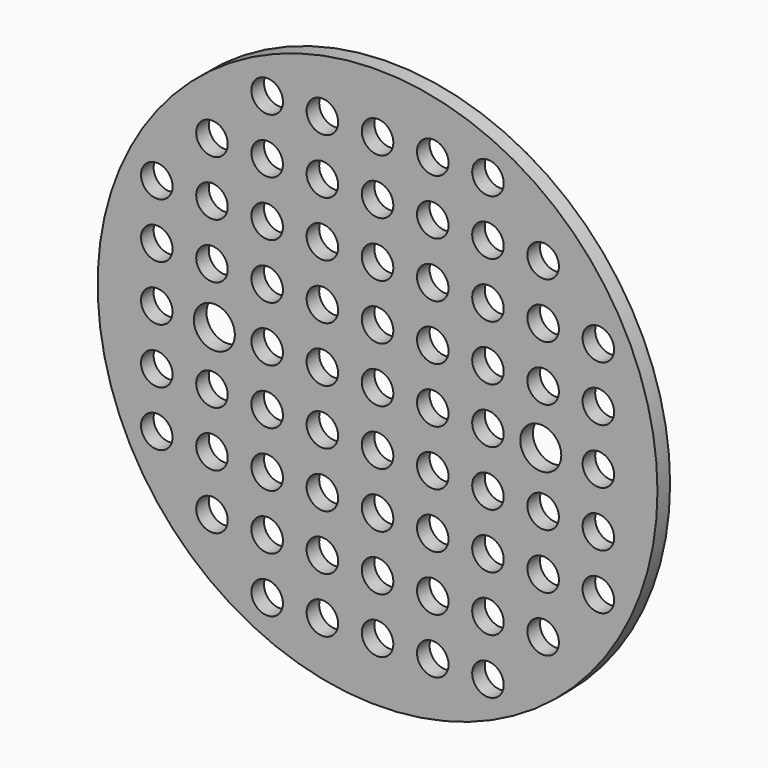
from build123d import *

# Parameters (mm, degrees)
F0_R     = 2.6
F1_DEPTH = 2
F2_R     = 2
F3_DEPTH = 25


with BuildPart() as f1:
    # F0 (on Front) → F1 (new body)
    with BuildSketch(Plane.XZ):
        with BuildLine():
            ThreePointArc((-35.5, 0), (0, -35.5), (35.5, 0))
            ThreePointArc((35.5, 0), (0, 35.5), (-35.5, 0))
        make_face()
        with BuildLine():
            ThreePointArc((-18.1, 0), (-20.7, -2.6), (-23.3, 0))
            ThreePointArc((-23.3, 0), (-20.7, 2.6), (-18.1, 0))
        make_face(mode=Mode.SUBTRACT)
        with Locations((20.7, 0)):
            Circle(F0_R, mode=Mode.SUBTRACT)
    extrude(amount=F1_DEPTH)

    # F2 (on face) → F3 (cut)
    with BuildSketch(Plane(origin=(0, 0, 0), x_dir=(-1, 0, 0), z_dir=(0, 1, 0))):
        Circle(F2_R)
        with Locations((0, 7)):
            Circle(F2_R)
        with Locations((0, 14)):
            Circle(F2_R)
        with Locations((0, 21)):
            Circle(F2_R)
        with Locations((0, 28)):
            Circle(F2_R)
        with Locations((7, 0)):
            Circle(F2_R)
        with Locations((7, 7)):
            Circle(F2_R)
        with Locations((7, 14)):
            Circle(F2_R)
        with Locations((7, 21)):
            Circle(F2_R)
        with Locations((7, 28)):
            Circle(F2_R)
        with Locations((14, 0)):
            Circle(F2_R)
        with Locations((14, 7)):
            Circle(F2_R)
        with Locations((14, 14)):
            Circle(F2_R)
        with Locations((14, 21)):
            Circle(F2_R)
        with Locations((14, 28)):
            Circle(F2_R)
        with Locations((21, 7)):
            Circle(F2_R)
        with Locations((21, 14)):
            Circle(F2_R)
        with Locations((21, 21)):
            Circle(F2_R)
        with Locations((28, 0)):
            Circle(F2_R)
        with Locations((28, 7)):
            Circle(F2_R)
        with Locations((28, 14)):
            Circle(F2_R)
        with Locations((-7, 28)):
            Circle(F2_R)
        with Locations((-7, 21)):
            Circle(F2_R)
        with Locations((-7, 14)):
            Circle(F2_R)
        with Locations((-7, 7)):
            Circle(F2_R)
        with Locations((-7, 0)):
            Circle(F2_R)
        with Locations((-14, 28)):
            Circle(F2_R)
        with Locations((-14, 21)):
            Circle(F2_R)
        with Locations((-14, 14)):
            Circle(F2_R)
        with Locations((-14, 7)):
            Circle(F2_R)
        with Locations((-14, 0)):
            Circle(F2_R)
        with Locations((-21, 21)):
            Circle(F2_R)
        with Locations((-21, 14)):
            Circle(F2_R)
        with Locations((-21, 7)):
            Circle(F2_R)
        with Locations((-28, 14)):
            Circle(F2_R)
        with Locations((-28, 7)):
            Circle(F2_R)
        with Locations((-28, 0)):
            Circle(F2_R)
        with Locations((-28, -7)):
            Circle(F2_R)
        with Locations((-21, -7)):
            Circle(F2_R)
        with Locations((-14, -7)):
            Circle(F2_R)
        with Locations((28, -7)):
            Circle(F2_R)
        with Locations((21, -7)):
            Circle(F2_R)
        with Locations((14, -7)):
            Circle(F2_R)
        with Locations((7, -7)):
            Circle(F2_R)
        with Locations((0, -7)):
            Circle(F2_R)
        with Locations((-7, -7)):
            Circle(F2_R)
        with Locations((-28, -14)):
            Circle(F2_R)
        with Locations((-21, -14)):
            Circle(F2_R)
        with Locations((-14, -14)):
            Circle(F2_R)
        with Locations((28, -14)):
            Circle(F2_R)
        with Locations((21, -14)):
            Circle(F2_R)
        with Locations((14, -14)):
            Circle(F2_R)
        with Locations((7, -14)):
            Circle(F2_R)
        with Locations((0, -14)):
            Circle(F2_R)
        with Locations((-7, -14)):
            Circle(F2_R)
        with Locations((-21, -21)):
            Circle(F2_R)
        with Locations((-14, -21)):
            Circle(F2_R)
        with Locations((21, -21)):
            Circle(F2_R)
        with Locations((14, -21)):
            Circle(F2_R)
        with Locations((7, -21)):
            Circle(F2_R)
        with Locations((0, -21)):
            Circle(F2_R)
        with Locations((-7, -21)):
            Circle(F2_R)
        with Locations((-14, -28)):
            Circle(F2_R)
        with Locations((14, -28)):
            Circle(F2_R)
        with Locations((7, -28)):
            Circle(F2_R)
        with Locations((0, -28)):
            Circle(F2_R)
        with Locations((-7, -28)):
            Circle(F2_R)
    extrude(amount=-F3_DEPTH, mode=Mode.SUBTRACT)


solid = f1.part
